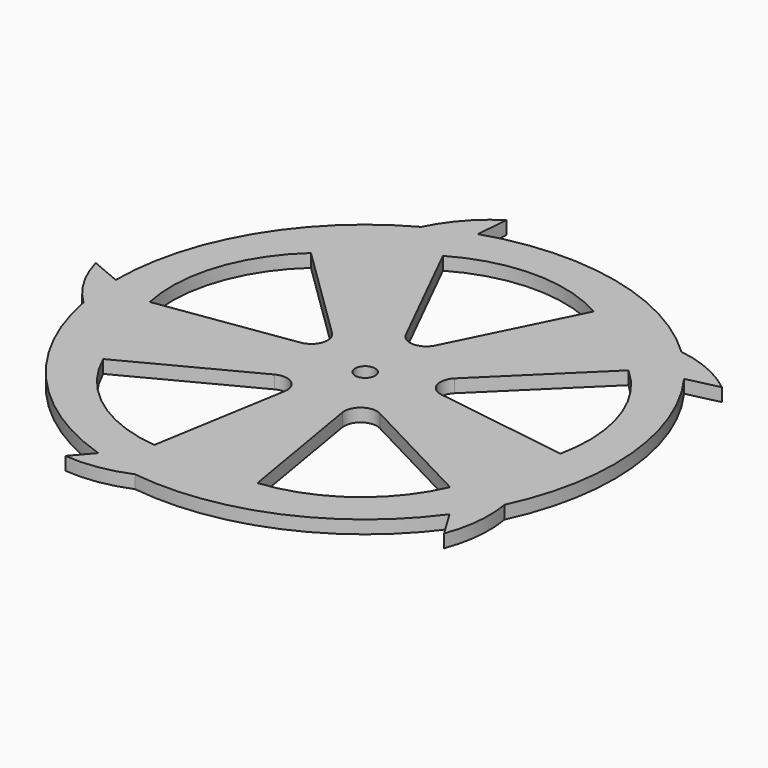
from build123d import *

# Parameters (mm, degrees)
F0_R     = 3.05
F1_DEPTH = 4


with BuildPart() as f1:
    # F0 (on Top) → F1 (new body)
    with BuildSketch(Plane.XY):
        with BuildLine():
            ThreePointArc((-85.412554, 3.889581), (-81.366933, -5.741367), (-74.911437, -13.954088))
            ThreePointArc((-74.911437, -13.954088), (-57.267473, -50.268047), (-23.547095, -72.470507))
            Line((-23.547095, -72.470507), (-28.783933, -78.518277))
            ThreePointArc((-28.783933, -78.518277), (-19.146532, -78.214508), (-9.877781, -75.557061))
            ThreePointArc((-9.877781, -75.557061), (30.111131, -69.998284), (61.647095, -44.789236))
            Line((61.647095, -44.789236), (66.81397, -53.350977))
            ThreePointArc((66.81397, -53.350977), (69.201923, -43.18142), (68.806633, -32.742744))
            ThreePointArc((68.806633, -32.742744), (75.877175, 7.006728), (61.647095, 44.789236))
            Line((61.647095, 44.789236), (71.386446, 47.057503))
            ThreePointArc((71.386446, 47.057503), (62.452541, 52.471147), (52.402619, 55.320932))
            ThreePointArc((52.402619, 55.320932), (16.783542, 74.32868), (-23.547095, 72.470507))
            Line((-23.547095, 72.470507), (-22.69472, 82.434113))
            ThreePointArc((-22.69472, 82.434113), (-30.60413, 75.610372), (-36.420034, 66.93296))
            ThreePointArc((-36.420034, 66.93296), (-65.504376, 38.930922), (-76.2, 0))
            Line((-76.2, 0), (-85.412554, 3.889581))
        make_face()
        with BuildLine():
            ThreePointArc((-15.762699, -60.844489), (-38.019069, -52.328759), (-52.995606, -33.793199))
            Line((-52.995606, -33.793199), (-16.051949, -14.47377))
            ThreePointArc((-16.051949, -14.47377), (-10.796001, -14.85942), (-8.805049, -19.738951))
            Line((-8.805049, -19.738951), (-15.762699, -60.844489))
        make_face(mode=Mode.SUBTRACT)
        with BuildLine():
            ThreePointArc((52.995606, -33.793199), (38.019069, -52.328759), (15.762699, -60.844489))
            Line((15.762699, -60.844489), (8.805049, -19.738951))
            ThreePointArc((8.805049, -19.738951), (10.796001, -14.85942), (16.051949, -14.47377))
            Line((16.051949, -14.47377), (52.995606, -33.793199))
        make_face(mode=Mode.SUBTRACT)
        Circle(F0_R, mode=Mode.SUBTRACT)
        with BuildLine():
            ThreePointArc((-62.73749, -3.810764), (-61.516146, 19.987808), (-48.515785, 39.959144))
            Line((-48.515785, 39.959144), (-18.725699, 10.793669))
            ThreePointArc((-18.725699, 10.793669), (-17.468296, 5.675793), (-21.493768, 2.274427))
            Line((-21.493768, 2.274427), (-62.73749, -3.810764))
        make_face(mode=Mode.SUBTRACT)
        with BuildLine():
            Line((23.011202, 58.489308), (4.478831, 21.144625))
            ThreePointArc((4.478831, 21.144625), (0, 18.367253), (-4.478831, 21.144625))
            Line((-4.478831, 21.144625), (-23.011202, 58.489308))
            ThreePointArc((-23.011202, 58.489308), (0, 64.681904), (23.011202, 58.489308))
        make_face(mode=Mode.SUBTRACT)
        with BuildLine():
            ThreePointArc((48.515785, 39.959144), (61.516146, 19.987808), (62.73749, -3.810764))
            Line((62.73749, -3.810764), (21.493768, 2.274427))
            ThreePointArc((21.493768, 2.274427), (17.468296, 5.675793), (18.725699, 10.793669))
            Line((18.725699, 10.793669), (48.515785, 39.959144))
        make_face(mode=Mode.SUBTRACT)
    extrude(amount=F1_DEPTH)


solid = f1.part
